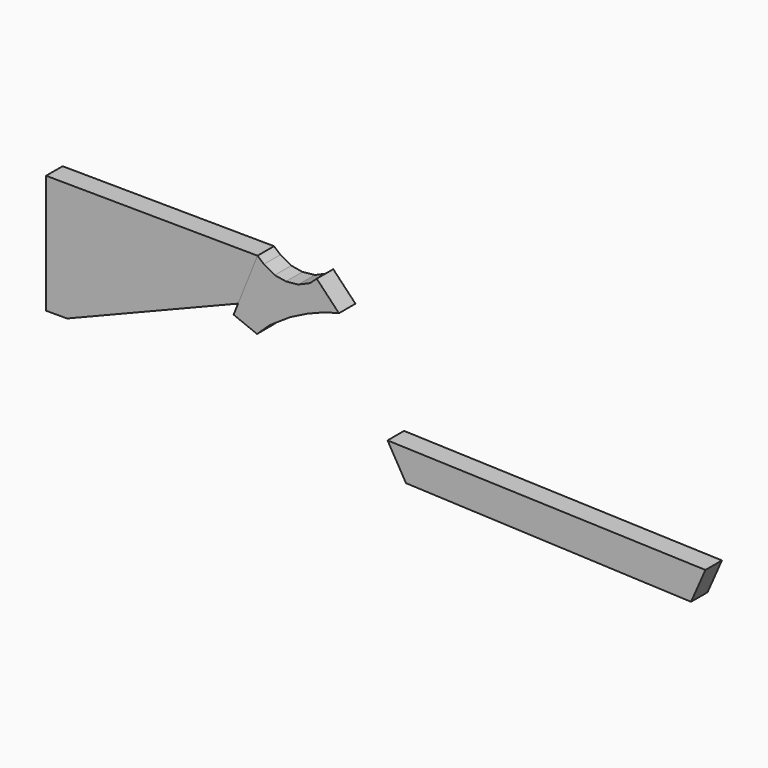
from build123d import *

# Parameters (mm, degrees)
F2_DEPTH = 6.35
F4_DEPTH = 6.35


with BuildPart() as f2:
    # F1 (on face) → F2 (new body)
    with BuildSketch(Plane.XZ):
        Polygon((-51.0594704005, 21.1444481476), (-45.0766035008, 36.0660873469), (-110.1323738694, 36.5694032435), (-110.1323738694, 0), (-103.6829250218, 0), align=None)
    extrude(amount=-F2_DEPTH)


with BuildPart() as f2b:
    # F0 (on Front) → F2, piece 2 (new body)
    with BuildSketch(Plane.XZ):
        Polygon((-43.1138053536, 34.3882204033), (-45.0766035008, 36.0660873469), (-51.0594704005, 21.1444481476), (-52.4420491249, 17.6962115019), (-45.2361473337, 14.8069879566), (-41.3237065077, 18.495129887), (-34.9567681551, 22.7355235256), (-29.5745804906, 25.4249968566), (-24.2146775126, 27.5306520052), (-20.0344100595, 28.6203236319), (-26.8648415804, 35.7585237361), (-28.9359614253, 33.8858165778), (-32.5532332063, 32.3276096024), (-36.3345146179, 31.9414720871), (-39.7744849324, 32.5234369375), align=None)
    extrude(amount=-F2_DEPTH)


with BuildPart() as f4:
    # F3 (on Front) → F4 (new body)
    with BuildSketch(Plane.XZ):
        Polygon((97.7926607244, 0), (0, 3.2795594294), (5.6813200936, -6.4599663019), (93.374453485, -10.0703090429), align=None)
    extrude(amount=F4_DEPTH)


solid = Compound([f2.part, f2b.part, f4.part])
